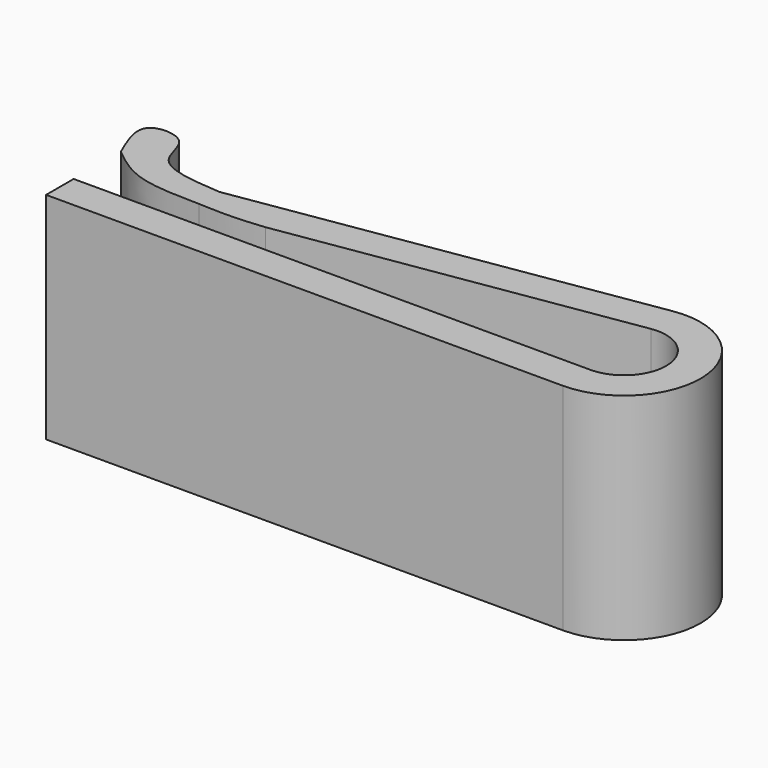
from build123d import *

# Parameters (mm, degrees)
F1_DEPTH = 25


with BuildPart() as f1:
    # F0 (on Top) → F1 (new body)
    with BuildSketch(Plane.XY):
        with BuildLine():
            Line((60, 0), (0, 0))
            Line((0, 0), (0, -4))
            Line((0, -4), (60, -4))
            ThreePointArc((60, -4), (68.8568799, 5.5804518491), (58.6117872519, 13.6592794761))
            Line((58.6117872519, 13.6592794761), (11.9117473774, 6.2713553941))
            add(Edge.make_bspline(
                [(11.9117473774, 6.2713553941), (8.8067651133, 6.4972680654), (3.4183678047, 6.889317722), (3.7834139619, 12.7129074337), (-2.6294865061, 12.8738821695), (-0.9292671165, 8.97201687), (0, 6.8394243717)],
                knots=[0, 0, 0, 0, 0.3073363281, 0.5333525612, 0.7449504914, 1, 1, 1, 1], degree=3))
            add(Edge.make_bspline(
                [(11.9117473774, 3.2713553941), (9.2304258246, 3.3113469763), (4.3088828931, 3.3847511857), (1.3478315059, 5.7587922269), (0, 6.8394243717)],
                knots=[0, 0, 0, 0, 0.5448131999, 1, 1, 1, 1], degree=3))
            add(Edge.make_bspline(
                [(11.9117473774, 3.2713553941), (13.366720079, 3.1984004905), (15.9912041224, 3.090620641), (19.5147760207, 3.4659632587), (19.5237015597, 3.4678606036), (19.5238625798, 3.4678943344)],
                knots=[0, 0, 0, 0, 0.5502212285, 0.9918832508, 1, 1, 1, 1], degree=3))
            Line((19.5238625798, 3.4678943344), (59.2417967893, 9.7091991862))
            ThreePointArc((59.2417967893, 9.7091991862), (64.8693793482, 5.2644598745), (60, 0))
        make_face()
    extrude(amount=F1_DEPTH)


solid = f1.part
